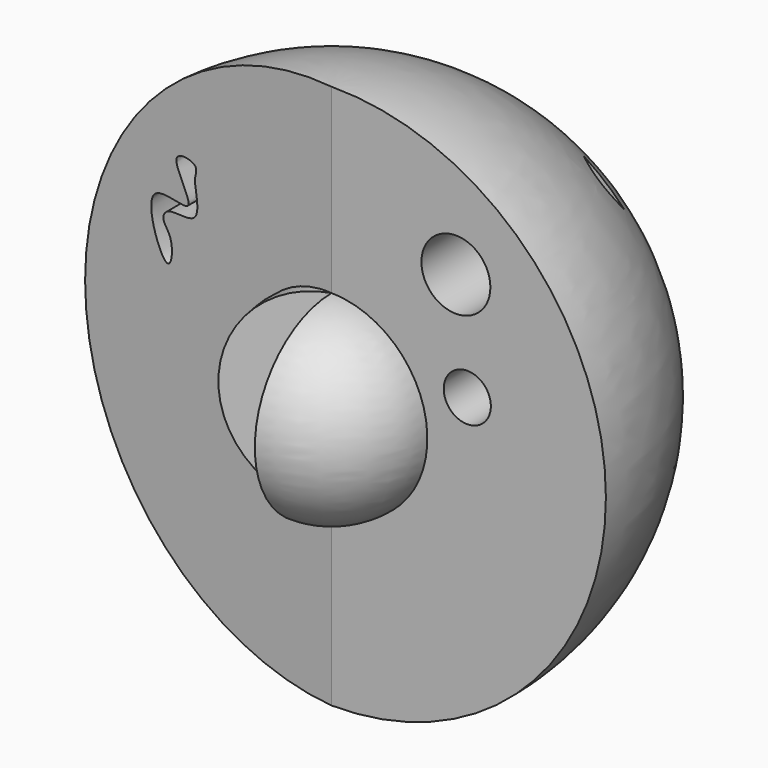
from build123d import *

# Parameters (mm, degrees)
F3_ANGLE  = 285.8509846146
F5_ANGLE  = 173.1823560663
F8_R      = 3.5080227588
F9_DEPTH  = 25
F10_DEPTH = 25
F11_R     = 5.1310607716
F12_DEPTH = 25


with BuildPart() as f1:
    # F0 (on Right) → F1 (revolve)
    with BuildSketch(Plane.YZ):
        with BuildLine():
            ThreePointArc((0, 15), (-7.4769144275, 7.5), (0, 0))
            Line((0, 0), (0, 15))
        make_face()
    revolve(axis=Axis((0, 0, 7.5), (0, 0, 1)))

    # F2 (on Right) → F3 (revolve)
    with BuildSketch(Plane.YZ):
        with BuildLine():
            ThreePointArc((0, 22.4768742919), (-14.2619615597, 8.0481655896), (0, -6.3805431128))
            Line((0, -6.3805431128), (0, 22.4768742919))
        make_face()
    revolve(axis=Axis((0, 0, 8.0481655896), (0, 0, 1)), revolution_arc=F3_ANGLE)

    # F4 (on Front) → F5 (revolve)
    with BuildSketch(Plane.XZ):
        with BuildLine():
            ThreePointArc((0, -31.5505750477), (40.8283007824, 8.9807081968), (0, 49.5119914412))
            Line((0, 49.5119914412), (0, -31.5505750477))
        make_face()
    revolve(axis=Axis((0, 0, 8.9807081968), (0, 0, 1)), revolution_arc=F5_ANGLE)

    # F8 (on Front) → F9 (cut)
    with BuildSketch(Plane.XZ):
        with Locations((20.2040113509, 15.3719540685)):
            Circle(F8_R)
    extrude(amount=-F9_DEPTH, mode=Mode.SUBTRACT)

    # F6 (on Front) → F10 (cut)
    with BuildSketch(Plane.XZ):
        with BuildLine():
            add(Edge.make_bspline(
                [(-27.0359124988, 16.2849184126), (-28.2191466397, 16.5848723112), (-32.6883882667, 27.8250394513), (-20.205618733, 22.6942270088), (-27.9575345496, 31.7812492765), (-21.7058034739, 31.2248440275), (-22.5950102656, 29.2098468564), (-22.3539786392, 27.684742381), (-21.4064617134, 22.7214822929), (-27.0283481925, 23.8756971027), (-28.1041523858, 21.5299593514), (-25.8405117567, 19.9900550008), (-26.3106614659, 16.101064797), (-27.0359124988, 16.2849184126)],
                knots=[0, 0, 0, 0, 0.1411098295, 0.2562729955, 0.3729309882, 0.4563563924, 0.5147659262, 0.579807999, 0.6721718941, 0.7723591543, 0.8341937072, 0.9135082009, 1, 1, 1, 1], degree=3))
        make_face()
    extrude(amount=-F10_DEPTH, mode=Mode.SUBTRACT)

    # F11 (on Front) → F12 (cut)
    with BuildSketch(Plane.XZ):
        with Locations((18.5087751597, 30.9197995812)):
            Circle(F11_R)
    extrude(amount=-F12_DEPTH, mode=Mode.SUBTRACT)


solid = f1.part
